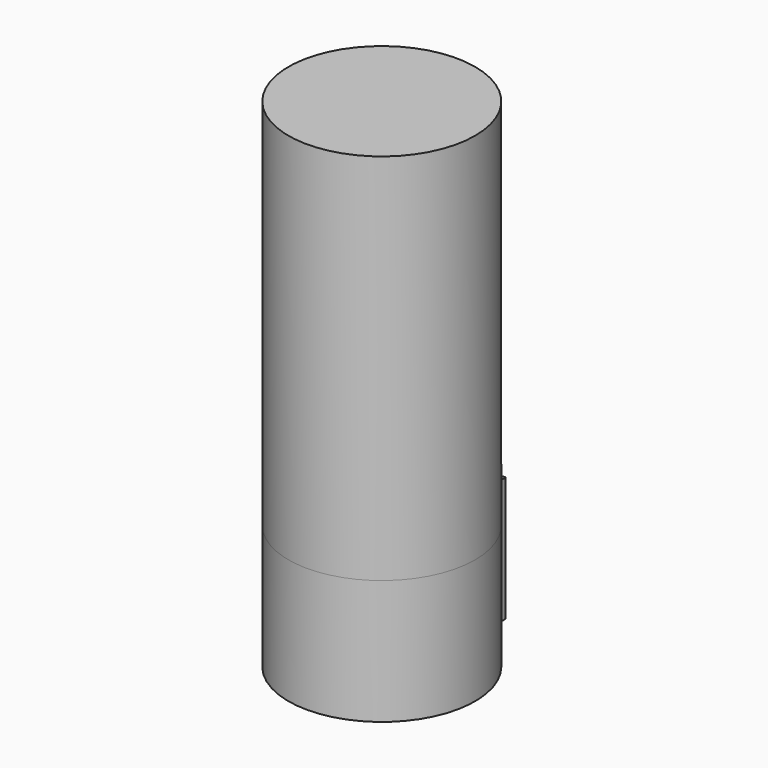
from build123d import *

# Parameters (mm, degrees)
F1_DEPTH = 10
F2_R     = 7.5
F3_DEPTH = 30


with BuildPart() as f1:
    # F0 (on Top) → F1 (new body)
    with BuildSketch(Plane.XY):
        with BuildLine():
            Line((-2, 9.948416), (-2, 7.228416))
            ThreePointArc((-2, 7.228416), (0, -7.5), (2, 7.228416))
            Line((2, 7.228416), (2, 9.948416))
            Line((2, 9.948416), (-2, 9.948416))
        make_face()
    extrude(amount=F1_DEPTH)

    # F2 (on face) → F3 (join)
    with BuildSketch(Plane.XY.offset(10)):
        Circle(F2_R)
    extrude(amount=F3_DEPTH)


solid = f1.part
